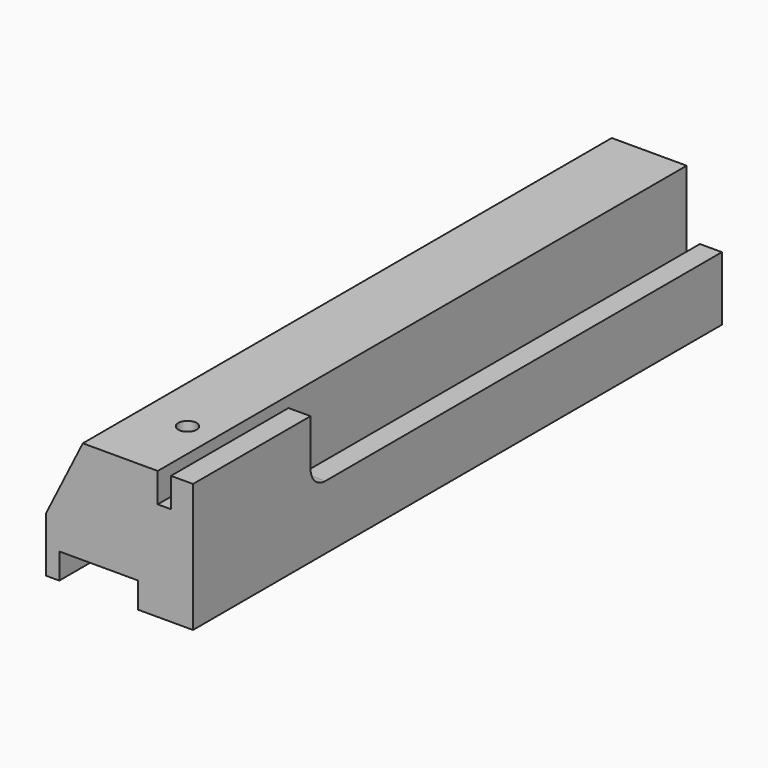
from build123d import *

# Parameters (mm, degrees)
F0_W            = 50.8
F0_H            = 44.45
F3_DEPTH        = 228.6
F4_SIZE2        = 12.7
F4_SIZE         = 25.4
F1_W            = 27.178
F1_H            = 8.89
F5_DEPTH        = 228.6
F2_W            = 4.572
F2_H            = 10.16
F6_DEPTH        = 228.6
F8_DEPTH        = 24.384
F9_W            = 2.364222
F9_H            = 0.78807
F10_DEPTH       = 12.192
F12_DEPTH       = 35.56
F14_D           = 6.35
F14_CBORE_D     = 16.51
F14_CBORE_DEPTH = 35.56


with BuildPart() as f3:
    # F0 (on Front) → F3 (new body)
    with BuildSketch(Plane.XZ):
        with Locations((25.4, 22.225)):
            Rectangle(F0_W, F0_H)
    extrude(amount=F3_DEPTH)

    # F4
    f4_edges = [f3.edges().sort_by_distance(p)[0] for p in [
        (0, -114.3, 44.45),
    ]]
    chamfer(f4_edges, length=F4_SIZE, length2=F4_SIZE2)

    # F1 (on Front) → F5 (cut)
    with BuildSketch(Plane.XZ):
        with Locations((18.161, 4.445)):
            Rectangle(F1_W, F1_H)
    extrude(amount=F5_DEPTH, mode=Mode.SUBTRACT)

    # F2 (on Front) → F6 (cut)
    with BuildSketch(Plane.XZ):
        with Locations((40.894, 39.37)):
            Rectangle(F2_W, F2_H)
    extrude(amount=F6_DEPTH, mode=Mode.SUBTRACT)

    # F7 (on face) → F8 (cut)
    with BuildSketch(Plane(origin=(0, 0, 0), x_dir=(1, 0, 0), z_dir=(0, 0, -1))):
        with BuildLine():
            ThreePointArc((32.258, 53.34), (31.514051, 55.136051), (29.718, 55.88))
            Line((29.718, 55.88), (9.398, 55.88))
            ThreePointArc((9.398, 55.88), (7.601949, 55.136051), (6.858, 53.34))
            Line((6.858, 53.34), (6.858, 7.62))
            ThreePointArc((6.858, 7.62), (7.601949, 5.823949), (9.398, 5.08))
            Line((9.398, 5.08), (29.718, 5.08))
            ThreePointArc((29.718, 5.08), (31.514051, 5.823949), (32.258, 7.62))
            Line((32.258, 7.62), (32.258, 53.34))
        make_face()
        with BuildLine():
            ThreePointArc((32.258, 118.11), (31.514051, 119.906051), (29.718, 120.65))
            Line((29.718, 120.65), (9.398, 120.65))
            ThreePointArc((9.398, 120.65), (7.601949, 119.906051), (6.858, 118.11))
            Line((6.858, 118.11), (6.858, 72.39))
            ThreePointArc((6.858, 72.39), (7.601949, 70.593949), (9.398, 69.85))
            Line((9.398, 69.85), (29.718, 69.85))
            ThreePointArc((29.718, 69.85), (31.514051, 70.593949), (32.258, 72.39))
            Line((32.258, 72.39), (32.258, 118.11))
        make_face()
        with BuildLine():
            ThreePointArc((32.258, 182.88), (31.514051, 184.676051), (29.718, 185.42))
            Line((29.718, 185.42), (9.398, 185.42))
            ThreePointArc((9.398, 185.42), (7.601949, 184.676051), (6.858, 182.88))
            Line((6.858, 182.88), (6.858, 137.16))
            ThreePointArc((6.858, 137.16), (7.601949, 135.363949), (9.398, 134.62))
            Line((9.398, 134.62), (29.718, 134.62))
            ThreePointArc((29.718, 134.62), (31.514051, 135.363949), (32.258, 137.16))
            Line((32.258, 137.16), (32.258, 182.88))
        make_face()
    extrude(amount=-F8_DEPTH, mode=Mode.SUBTRACT)

    # F9 (on face) → F10 (cut)
    with BuildSketch(Plane.YZ.offset(50.8)):
        with BuildLine():
            Line((0, 22.098), (0, 44.45))
            Line((0, 44.45), (-177.8, 44.45))
            Line((-177.8, 44.45), (-177.8, 28.448))
            ThreePointArc((-177.8, 28.448), (-175.940128, 23.957872), (-171.45, 22.098))
            Line((-171.45, 22.098), (0, 22.098))
        make_face()
        with Locations((10.441655, 33.889506)):
            Rectangle(F9_W, F9_H)
    extrude(amount=-F10_DEPTH, mode=Mode.SUBTRACT)

    # F11 (on face) → F12 (cut)
    with BuildSketch(Plane.XY.offset(44.45)):
        with BuildLine():
            Line((43.18, 0), (38.608, 0))
            Line((38.608, 0), (38.608, -177.8))
            ThreePointArc((38.608, -177.8), (39.277554, -179.416446), (40.894, -180.086))
            ThreePointArc((40.894, -180.086), (42.510446, -179.416446), (43.18, -177.8))
            Line((43.18, -177.8), (43.18, 0))
        make_face()
    extrude(amount=-F12_DEPTH, mode=Mode.SUBTRACT)

    # F14 (through all)
    with Locations(Plane(origin=(0, 0, 0), x_dir=(1, 0, 0), z_dir=(0, 0, -1))):
        with Locations((28.575, 203.2)):
            CounterBoreHole(F14_D / 2, F14_CBORE_D / 2, F14_CBORE_DEPTH)


solid = f3.part
